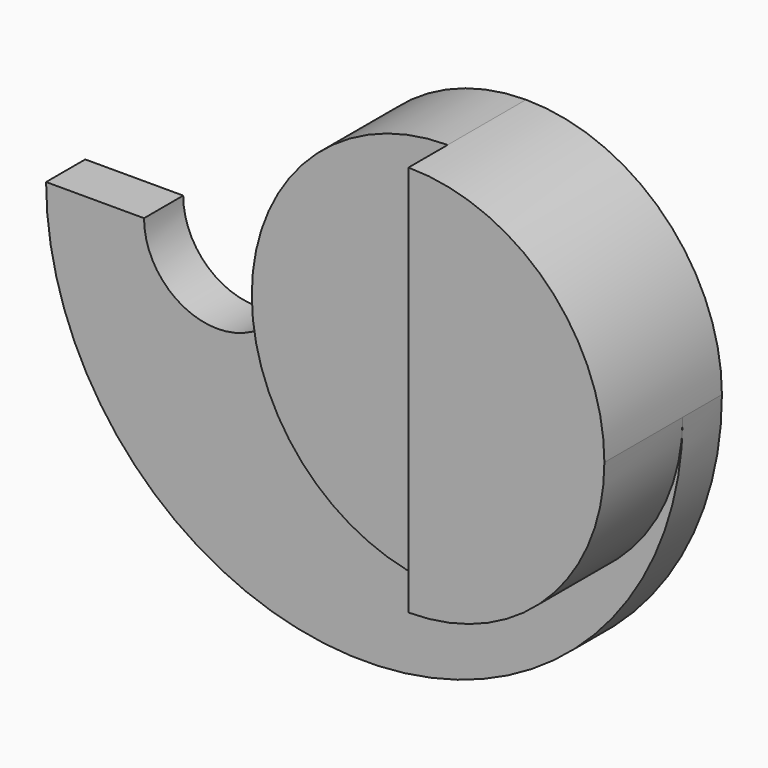
from build123d import *

# Parameters (mm, degrees)
F1_DEPTH = 30
F2_DEPTH = 20
F3_DEPTH = 10


with BuildPart() as f1:
    # F0 (on Front) → F1 (new body)
    with BuildSketch(Plane.XZ):
        with BuildLine():
            ThreePointArc((50, 0), (42.67767, 17.67767), (25, 25))
            Line((25, 25), (25, 0))
            Line((25, 0), (25, -25))
            ThreePointArc((25, -25), (42.67767, -17.67767), (50, 0))
        make_face()
        with BuildLine():
            ThreePointArc((25, -40), (53.284271, -28.284271), (65, 0))
            ThreePointArc((65, 0), (53.284271, 28.284271), (25, 40))
            Line((25, 40), (25, 25))
            ThreePointArc((25, 25), (42.67767, 17.67767), (50, 0))
            ThreePointArc((50, 0), (42.67767, -17.67767), (25, -25))
            Line((25, -25), (25, -40))
        make_face()
    extrude(amount=F1_DEPTH)

    # F0 (on Front) → F2 (join)
    with BuildSketch(Plane.XZ):
        with BuildLine():
            ThreePointArc((25, 40), (-3.284271, 28.284271), (-15, 0))
            ThreePointArc((-15, 0), (-3.284271, -28.284271), (25, -40))
            Line((25, -40), (25, -25))
            ThreePointArc((25, -25), (0, 0), (25, 25))
            Line((25, 25), (25, 40))
        make_face()
        with BuildLine():
            Line((25, 0), (25, 25))
            ThreePointArc((25, 25), (0, 0), (25, -25))
            Line((25, -25), (25, 0))
        make_face()
    extrude(amount=F2_DEPTH)

    # F0 (on Front) → F3 (join)
    with BuildSketch(Plane.XZ):
        with BuildLine():
            Line((-45, 0), (-65, 0))
            ThreePointArc((-65, 0), (0, -65), (65, 0))
            ThreePointArc((65, 0), (53.284271, -28.284271), (25, -40))
            ThreePointArc((25, -40), (-3.284271, -28.284271), (-15, 0))
            ThreePointArc((-15, 0), (-30, -15), (-45, 0))
        make_face()
    extrude(amount=F3_DEPTH)


solid = f1.part
